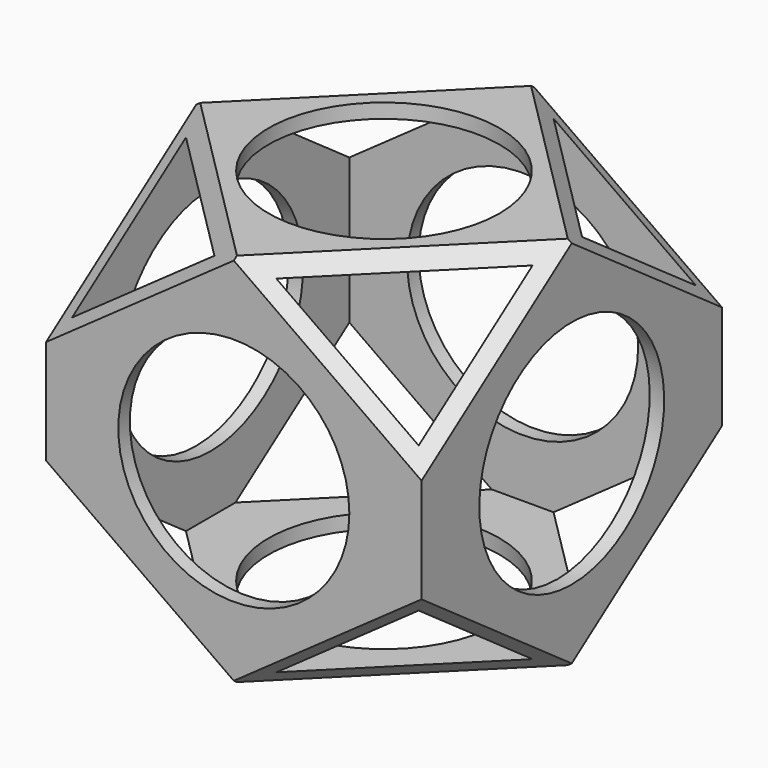
from build123d import *

# Parameters (mm, degrees)
PAD001_DEPTH            = 45.961941
PAD_DEPTH               = 45.961941
CYLINDER002_R           = 40
CYLINDER002_DEPTH       = 130
CYLINDER002_PITCH_ANGLE = 90
CYLINDER001_R           = 40
CYLINDER001_DEPTH       = 130
CYLINDER001_ROLL_ANGLE  = 90
CYLINDER_R              = 40
CYLINDER_DEPTH          = 130
BOX001_W                = 120
BOX001_H                = 120
BOX001_DEPTH            = 120
BOX_W                   = 130
BOX_H                   = 130
BOX_DEPTH               = 130


with BuildPart() as pad001:
    # Sketch001 → Pad001 (new body, symmetric)
    with BuildSketch(Plane(origin=(0, 0, 0), x_dir=(-0.707107, 0.707107, 0), z_dir=(0.707107, 0.707107, 0))):
        Polygon((-100, 10), (-100, 85), (-25, 85), align=None)
        Polygon((25, 85), (100, 85), (100, 10), align=None)
        Polygon((25, -85), (100, -85), (100, -10), align=None)
        Polygon((-100, -10), (-100, -85), (-25, -85), align=None)
    extrude(amount=PAD001_DEPTH, both=True)


with BuildPart() as pad:
    # Sketch → Pad (new body, symmetric)
    with BuildSketch(Plane(origin=(0, 0, 0), x_dir=(0.707107, 0.707107, 0), z_dir=(0.707107, -0.707107, 0))):
        Polygon((-100, 10), (-100, 85), (-25, 85), align=None)
        Polygon((25, 85), (100, 85), (100, 10), align=None)
        Polygon((25, -85), (100, -85), (100, -10), align=None)
        Polygon((-100, -10), (-100, -85), (-25, -85), align=None)
    extrude(amount=PAD_DEPTH, both=True)


with BuildPart() as cylinder002:
    # Cylinder002 → Cylinder002 (new body)
    with BuildSketch(Plane.XY):
        Circle(CYLINDER002_R)
    extrude(amount=CYLINDER002_DEPTH)


with BuildPart() as cylinder002_1:
    # Cylinder002 pitch: moved
    add(cylinder002.part.rotate(Axis((0, 0, 0), (0, 1, 0)), CYLINDER002_PITCH_ANGLE))


with BuildPart() as cylinder002_2:
    # Cylinder002 placement: moved
    add(cylinder002_1.part.moved(Location((-65, 0, 0))))


with BuildPart() as cylinder001:
    # Cylinder001 → Cylinder001 (new body)
    with BuildSketch(Plane.XY):
        Circle(CYLINDER001_R)
    extrude(amount=CYLINDER001_DEPTH)


with BuildPart() as cylinder001_1:
    # Cylinder001 roll: moved
    add(cylinder001.part.rotate(Axis((0, 0, 0), (1, 0, 0)), CYLINDER001_ROLL_ANGLE))


with BuildPart() as cylinder001_2:
    # Cylinder001 placement: moved
    add(cylinder001_1.part.moved(Location((0, 65, 0))))


with BuildPart() as cylinder:
    # Cylinder → Cylinder (new body)
    with BuildSketch(Plane.XY.offset(-65)):
        Circle(CYLINDER_R)
    extrude(amount=CYLINDER_DEPTH)


with BuildPart() as cube001:
    # Box001 → Box001 (new body)
    with BuildSketch(Plane(origin=(-60, -60, -60), x_dir=(1, 0, 0), z_dir=(0, 0, 1))):
        with Locations((60, 60)):
            Rectangle(BOX001_W, BOX001_H)
    extrude(amount=BOX001_DEPTH)


with BuildPart() as cut005:
    # Box → Box (new body)
    with BuildSketch(Plane(origin=(-65, -65, -65), x_dir=(1, 0, 0), z_dir=(0, 0, 1))):
        with Locations((65, 65)):
            Rectangle(BOX_W, BOX_H)
    extrude(amount=BOX_DEPTH)

    # Cut: cut Cube001
    add(cube001.part, mode=Mode.SUBTRACT)

    # Cut001: cut Cylinder
    add(cylinder.part, mode=Mode.SUBTRACT)

    # Cut002: cut Cylinder001
    add(cylinder001_2.part, mode=Mode.SUBTRACT)

    # Cut003: cut Cylinder002
    add(cylinder002_2.part, mode=Mode.SUBTRACT)

    # Cut004: cut Pad
    add(pad.part, mode=Mode.SUBTRACT)

    # Cut005: cut Pad001
    add(pad001.part, mode=Mode.SUBTRACT)


solid = cut005.part
